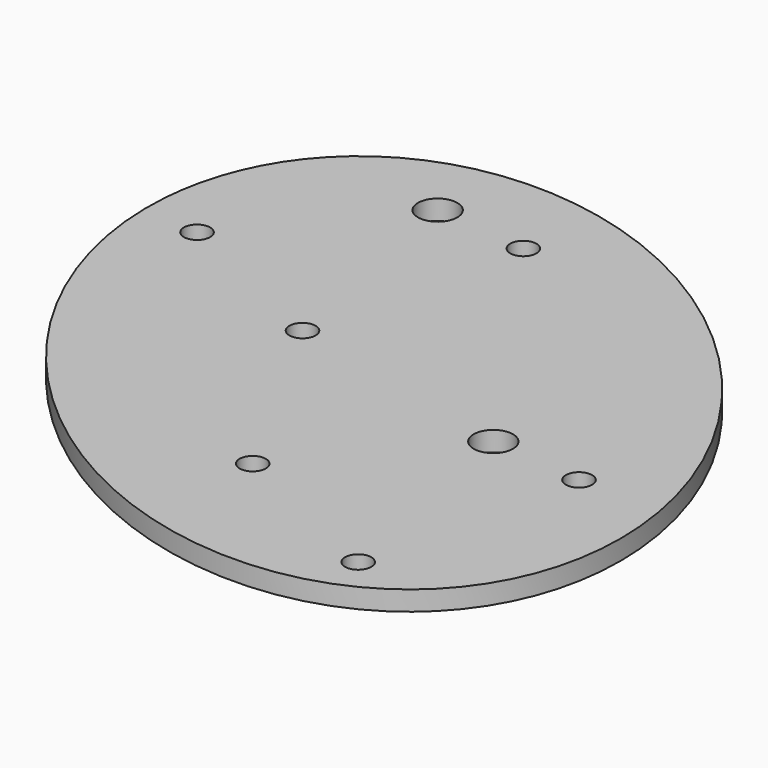
from build123d import *

# Parameters (mm, degrees)
SKETCH_R   = 2
SKETCH_R_2 = 3
PAD_DEPTH  = 3


with BuildPart() as part:
    # Sketch → Pad (new body)
    with BuildSketch(Plane.XY):
        with BuildLine():
            add(Edge.make_bspline(
                [(39.59798, -39.59798), (88.587775, 9.391815), (4.695908, 44.293887), (-79.195959, 79.195959), (-44.293887, -4.695908), (-9.391815, -88.587775), (39.59798, -39.59798)],
                knots=[0, 0, 0, 2.094395, 2.094395, 4.18879, 4.18879, 6.283185, 6.283185, 6.283185], degree=2, weights=[1, 0.5, 1, 0.5, 1, 0.5, 1]))
        make_face()
        with Locations((-7.071068, 35.355339)):
            Circle(SKETCH_R, mode=Mode.SUBTRACT)
        with Locations((-40.007056, 14.372801)):
            Circle(SKETCH_R, mode=Mode.SUBTRACT)
        with Locations((-14.372801, 2.419351)):
            Circle(SKETCH_R, mode=Mode.SUBTRACT)
        with Locations((35.355339, -7.071068)):
            Circle(SKETCH_R, mode=Mode.SUBTRACT)
        with Locations((2.419351, -28.053606)):
            Circle(SKETCH_R, mode=Mode.SUBTRACT)
        with Locations((28.053606, -40.007056)):
            Circle(SKETCH_R, mode=Mode.SUBTRACT)
        with Locations((-21.213203, 36.713203)):
            Circle(SKETCH_R_2, mode=Mode.SUBTRACT)
        with Locations((21.213203, -5.713203)):
            Circle(SKETCH_R_2, mode=Mode.SUBTRACT)
    extrude(amount=PAD_DEPTH)


solid = part.part
